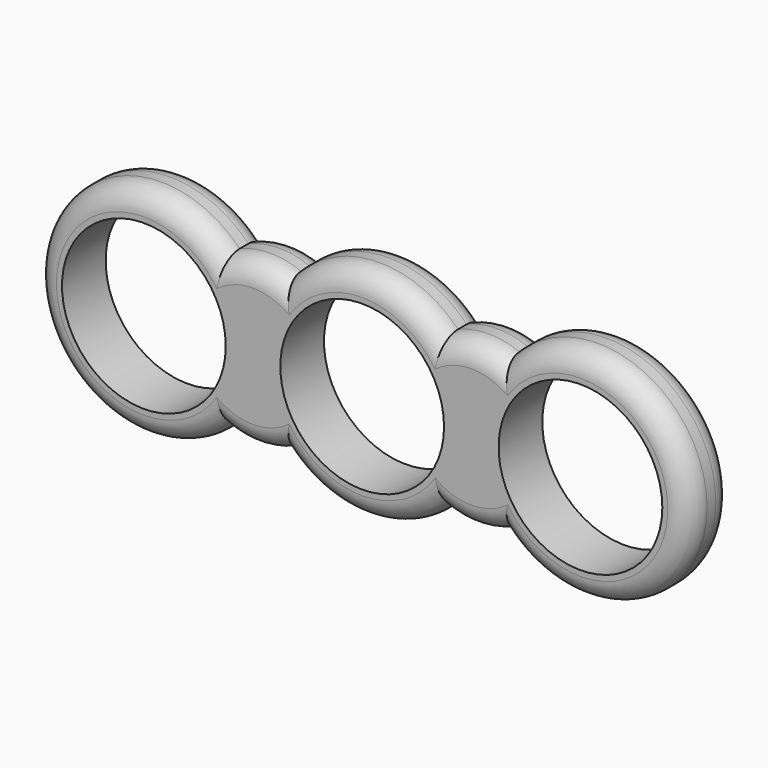
from build123d import *

# Parameters (mm, degrees)
F0_R     = 19.05
F1_DEPTH = 12.7
F2_R     = 5.08


with BuildPart() as f1:
    # F0 (on Front) → F1 (new body)
    with BuildSketch(Plane.XZ):
        with BuildLine():
            ThreePointArc((-32.54375, 17.659823), (-76.2, 0), (-32.54375, -17.659823))
            ThreePointArc((-32.54375, -17.659823), (-25.4, -19.05), (-18.25625, -17.659823))
            ThreePointArc((-18.25625, -17.659823), (0, -25.4), (18.25625, -17.659823))
            ThreePointArc((18.25625, -17.659823), (25.4, -19.05), (32.54375, -17.659823))
            ThreePointArc((32.54375, -17.659823), (76.2, 0), (32.54375, 17.659823))
            ThreePointArc((32.54375, 17.659823), (25.4, 19.05), (18.25625, 17.659823))
            ThreePointArc((18.25625, 17.659823), (0, 25.4), (-18.25625, 17.659823))
            ThreePointArc((-18.25625, 17.659823), (-25.4, 19.05), (-32.54375, 17.659823))
        make_face()
        with Locations((-50.8, 0)):
            Circle(F0_R, mode=Mode.SUBTRACT)
        Circle(F0_R, mode=Mode.SUBTRACT)
        with Locations((50.8, 0)):
            Circle(F0_R, mode=Mode.SUBTRACT)
    extrude(amount=F1_DEPTH)

    # F2
    f2_edges = [f1.edges().sort_by_distance(p)[0] for p in [
        (-76.2, -12.7, 0),
        (-76.2, 0, 0),
        (-25.4, -12.7, 19.05),
        (-25.4, 0, 19.05),
        (0, 0, 25.4),
        (0, -12.7, 25.4),
        (25.4, -12.7, 19.05),
        (25.4, 0, 19.05),
        (76.2, -12.7, 0),
        (76.2, 0, 0),
        (-25.4, 0, -19.05),
        (-25.4, -12.7, -19.05),
        (0, -12.7, -25.4),
        (0, 0, -25.4),
        (25.4, 0, -19.05),
        (25.4, -12.7, -19.05),
    ]]
    fillet(f2_edges, radius=F2_R)


solid = f1.part
